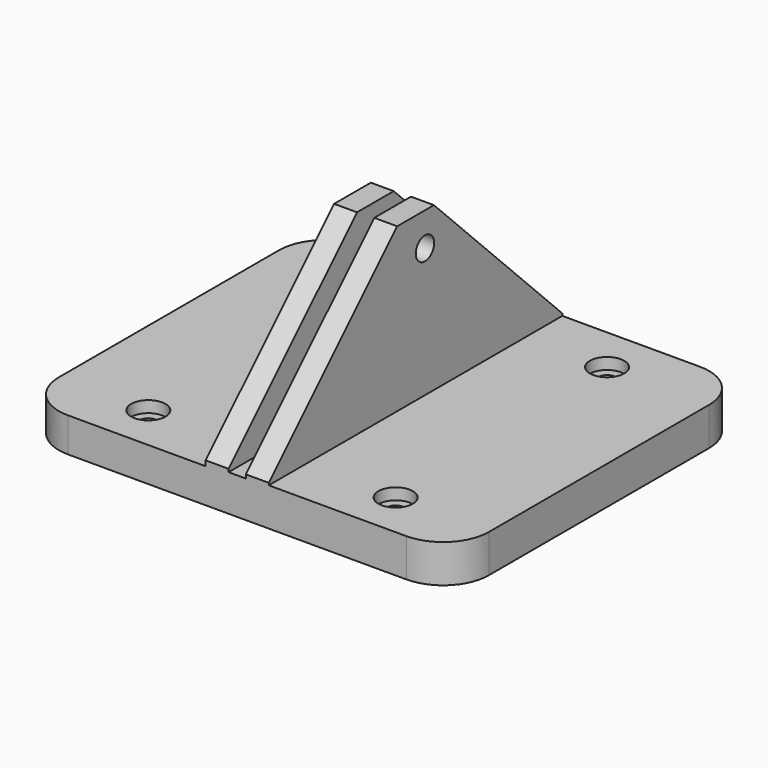
from build123d import *

# Parameters (mm, degrees)
F1_DEPTH       = 101.6
F3_D           = 4.7752
F3_CBORE_D     = 9.525
F3_CBORE_DEPTH = 3.175
F5_D           = 4.7752
F5_CBORE_D     = 9.525
F5_CBORE_DEPTH = 3.175
F7_D           = 6.35
F8_SIZE        = 44.45
F9_R           = 12.7


with BuildPart() as f1:
    # F0 (on Front) → F1 (new body)
    with BuildSketch(Plane.XZ):
        Polygon((0, 9.525), (0, 0), (119.0752, 0), (119.0752, 10.549193), (68.2752, 10.549193), (68.2752, 55.613711), (61.9252, 55.613711), (61.9252, 10.139516), (57.15, 10.139516), (57.15, 55.40887), (50.8, 55.40887), (50.8, 9.525), align=None)
    extrude(amount=F1_DEPTH)

    # F3 (through all)
    with Locations(Plane.XY.offset(9.525)):
        with Locations((22.530584, -12.7), (24.763316, -88.9)):
            CounterBoreHole(F3_D / 2, F3_CBORE_D / 2, F3_CBORE_DEPTH)

    # F5 (through all)
    with Locations(Plane.XY.offset(10.549193)):
        with Locations((90.809768, -12.7), (93.242841, -88.9)):
            CounterBoreHole(F5_D / 2, F5_CBORE_D / 2, F5_CBORE_DEPTH)

    # F7 (through all)
    with Locations(Plane(origin=(50.8, 0, 0), x_dir=(0, -1, 0), z_dir=(-1, 0, 0))):
        with Locations((47.544591, 46.355)):
            Hole(F7_D / 2)

    # F8
    f8_edges = [f1.edges().sort_by_distance(p)[0] for p in [
        (53.975, 0, 55.40887),
        (53.975, -101.6, 55.40887),
        (65.1002, -101.6, 55.613711),
        (65.1002, 0, 55.613711),
    ]]
    chamfer(f8_edges, length=F8_SIZE)

    # F9
    f9_edges = [f1.edges().sort_by_distance(p)[0] for p in [
        (0, 0, 4.7625),
        (0, -101.6, 4.7625),
        (119.0752, -101.6, 5.274597),
        (119.0752, 0, 5.274597),
    ]]
    fillet(f9_edges, radius=F9_R)


solid = f1.part
